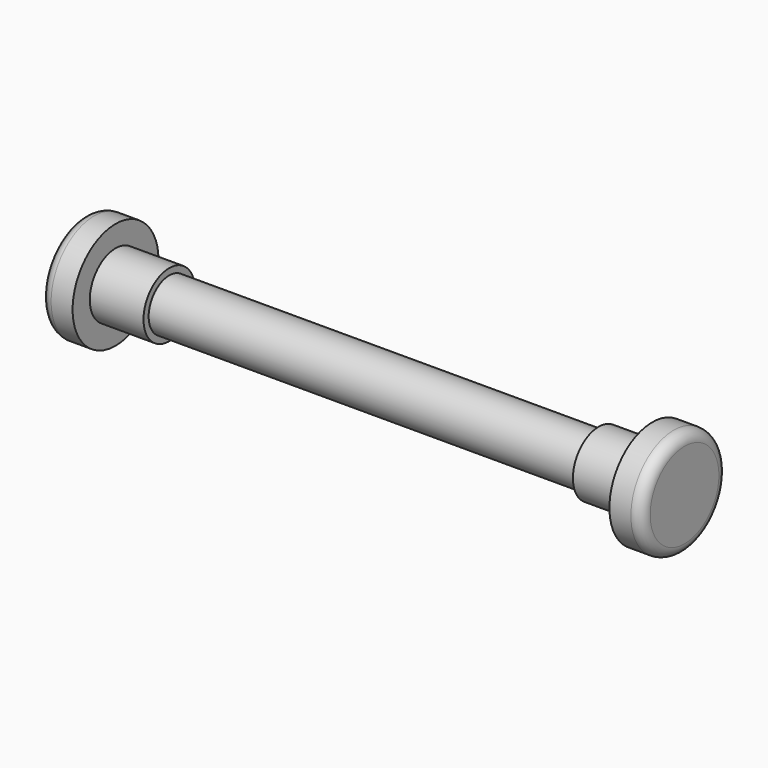
from build123d import *


with BuildPart() as f1:
    # F0 (on Top) → F1 (revolve)
    with BuildSketch(Plane.XY):
        with BuildLine():
            Line((-28, 4), (-28, 0))
            Line((-28, 0), (28, 0))
            Line((28, 0), (28, 4))
            ThreePointArc((28, 4), (27.707107, 4.707107), (27, 5))
            Line((27, 5), (25, 5))
            Line((25, 5), (25, 3))
            Line((25, 3), (20, 3))
            Line((20, 3), (20, 2.4))
            Line((20, 2.4), (-20, 2.4))
            Line((-20, 2.4), (-20, 3))
            Line((-20, 3), (-25, 3))
            Line((-25, 3), (-25, 5))
            Line((-25, 5), (-27, 5))
            ThreePointArc((-27, 5), (-27.707107, 4.707107), (-28, 4))
        make_face()
    revolve(axis=Axis((1.130419, 0, 0), (1, 0, 0)))


solid = f1.part
